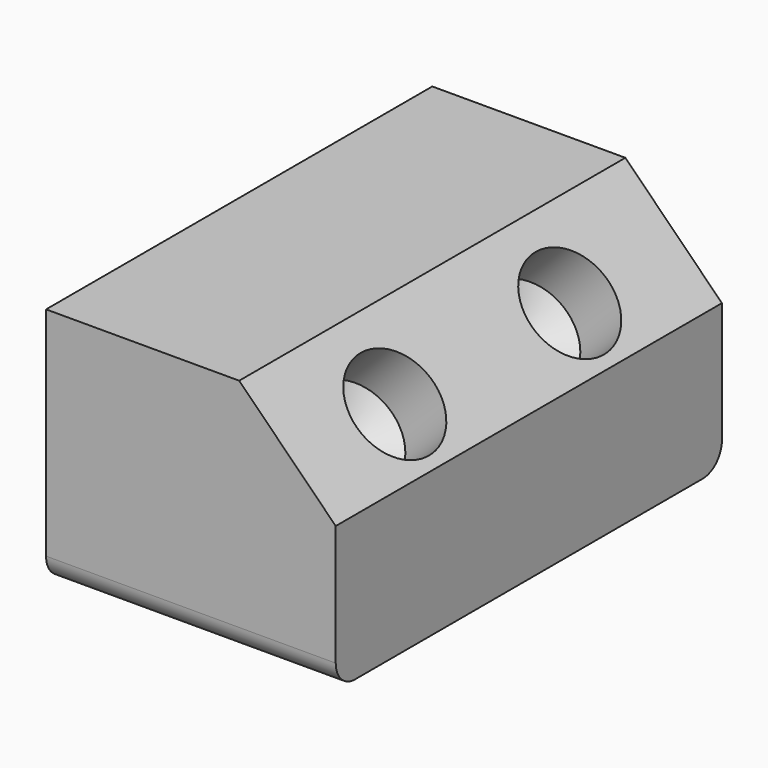
from build123d import *

# Parameters (mm, degrees)
F0_W     = 60
F0_H     = 100
F1_DEPTH = 50
F2_SIZE  = 20
F4_D     = 20
F4_DEPTH = 12
F4_TIP   = 6.0086061903
F6_R     = 5
F7_R     = 5


with BuildPart() as f1:
    # F0 (on Top) → F1 (new body)
    with BuildSketch(Plane.XY):
        with Locations((30, 50)):
            Rectangle(F0_W, F0_H)
    extrude(amount=F1_DEPTH)

    # F2
    f2_edges = [f1.edges().sort_by_distance(p)[0] for p in [
        (60, 50, 50),
    ]]
    chamfer(f2_edges, length=F2_SIZE)

    # F4
    with Locations(Plane(origin=(45, 0, 45), x_dir=(0.7071067812, 0, -0.7071067812), z_dir=(0.7071067812, 0, 0.7071067812))):
        with Locations((8.8761840016, 26.199977845), (8.8761840016, 71.5014504518)):
            Hole(F4_D / 2, depth=F4_DEPTH)
            with Locations((0, 0, -(F4_DEPTH + F4_TIP / 2))):  # 118° drill point
                Cone(0, F4_D / 2, F4_TIP, mode=Mode.SUBTRACT)

    # F6
    f6_edges = [f1.edges().sort_by_distance(p)[0] for p in [
        (30, 0, 0),
    ]]
    fillet(f6_edges, radius=F6_R)

    # F7
    f7_edges = [f1.edges().sort_by_distance(p)[0] for p in [
        (30, 100, 0),
    ]]
    fillet(f7_edges, radius=F7_R)


solid = f1.part
